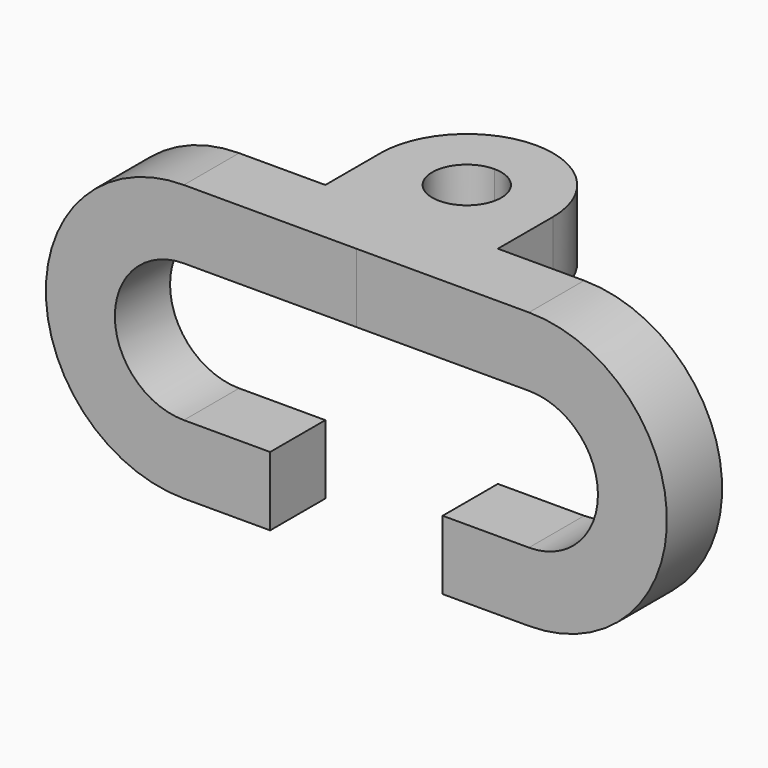
from build123d import *

# Parameters (mm, degrees)
F1_DEPTH = 12.7
F3_DEPTH = 12.7


with BuildPart() as f1:
    # F0 (on Front) → F1 (new body)
    with BuildSketch(Plane.XZ):
        with BuildLine():
            Line((31.75, 0), (0, 0))
            Line((0, 0), (0, -12.7))
            Line((0, -12.7), (31.75, -12.7))
            ThreePointArc((31.75, -12.7), (44.45, -25.4), (31.75, -38.1))
            Line((31.75, -38.1), (15.875, -38.1))
            Line((15.875, -38.1), (15.875, -50.8))
            Line((15.875, -50.8), (31.75, -50.8))
            ThreePointArc((31.75, -50.8), (57.15, -25.4), (31.75, 0))
        make_face()
    extrude(amount=F1_DEPTH)

    # F2 (on face) → F3 (join, through all)
    with BuildSketch(Plane.XY):
        with BuildLine():
            Line((15.875, 0), (15.875, 12.7))
            ThreePointArc((15.875, 12.7), (11.22532, 23.92532), (0, 28.575))
            Line((0, 28.575), (0, 19.05))
            ThreePointArc((0, 19.05), (6.35, 12.7), (0, 6.35))
            Line((0, 6.35), (0, 0))
            Line((0, 0), (15.875, 0))
        make_face()
    extrude(amount=-F3_DEPTH)

    # F4: F1 across face


with BuildPart() as f1_1:
    add(f1.part)
    add(f1.part.mirror(Plane(origin=(0, -3.175, -6.35), x_dir=(0, -1, 0), z_dir=(-1, 0, 0))))


solid = f1_1.part
